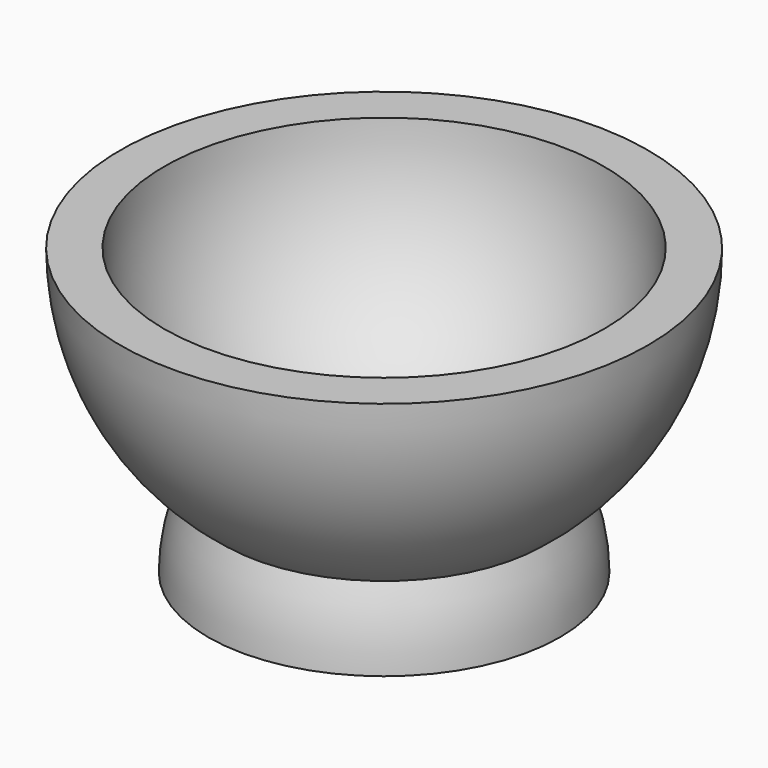
from build123d import *

# Parameters (mm, degrees)
F3_SCALE = 2


with BuildPart() as f2:
    # F1 (on Front) → F2 (revolve)
    with BuildSketch(Plane.XZ):
        with BuildLine():
            Line((19.05, -41.2325449288), (25.4, -41.2325449288))
            ThreePointArc((25.4, -41.2325449288), (24.7856075246, -35.6797384638), (22.9721527844, -30.3955621177))
            ThreePointArc((22.9721527844, -30.3955621177), (34.1090092284, -16.9760269043), (38.1, 0))
            Line((38.1, 0), (31.75, 0))
            ThreePointArc((31.75, 0), (22.4506403027, -22.4506403027), (0, -31.75))
            Line((0, -31.75), (0, -38.1))
            ThreePointArc((0, -38.1), (9.0313967854, -37.0141036918), (17.5479819998, -33.8183134963))
            ThreePointArc((17.5479819998, -33.8183134963), (18.6707198187, -37.4501222327), (19.05, -41.2325449288))
        make_face()
    revolve(axis=Axis((0, 0, 1.3704523444), (0, 0, -1)))


with BuildPart() as f2_1:
    # F3: moved
    add(f2.part.scale(F3_SCALE))


solid = f2_1.part
